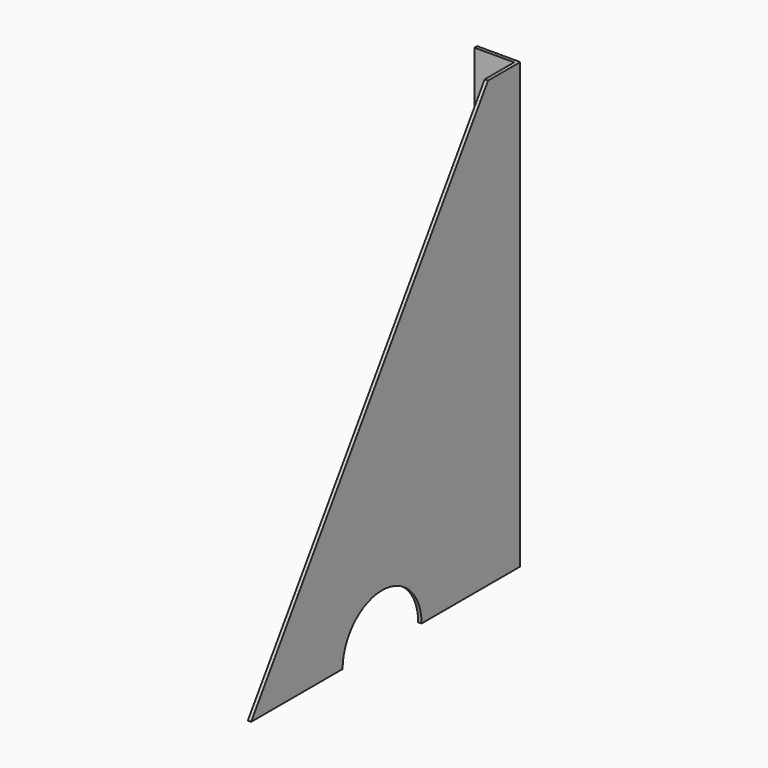
from build123d import *

# Parameters (mm, degrees)
F1_DEPTH = 3.429
F3_DEPTH = 457.2
F4_R     = 50.8
F5_DEPTH = 25.4


with BuildPart() as f1:
    # F0 (on Right) → F1 (new body)
    with BuildSketch(Plane.YZ):
        Polygon((-304.8, 0), (0, 0), (0, 457.2), align=None)
    extrude(amount=F1_DEPTH)

    # F2 (on Top) → F3 (join, through all)
    with BuildSketch(Plane.XY):
        Polygon((0, 38.1), (0, 0), (3.429, 0), (3.429, 41.529), (-41.021, 41.529), (-41.021, 38.1), align=None)
    extrude(amount=F3_DEPTH)

    # F4 (on face) → F5 (cut)
    with BuildSketch(Plane.YZ.offset(3.429)):
        with Locations((-136.271, 0)):
            Circle(F4_R)
    extrude(amount=-F5_DEPTH, mode=Mode.SUBTRACT)


solid = f1.part
